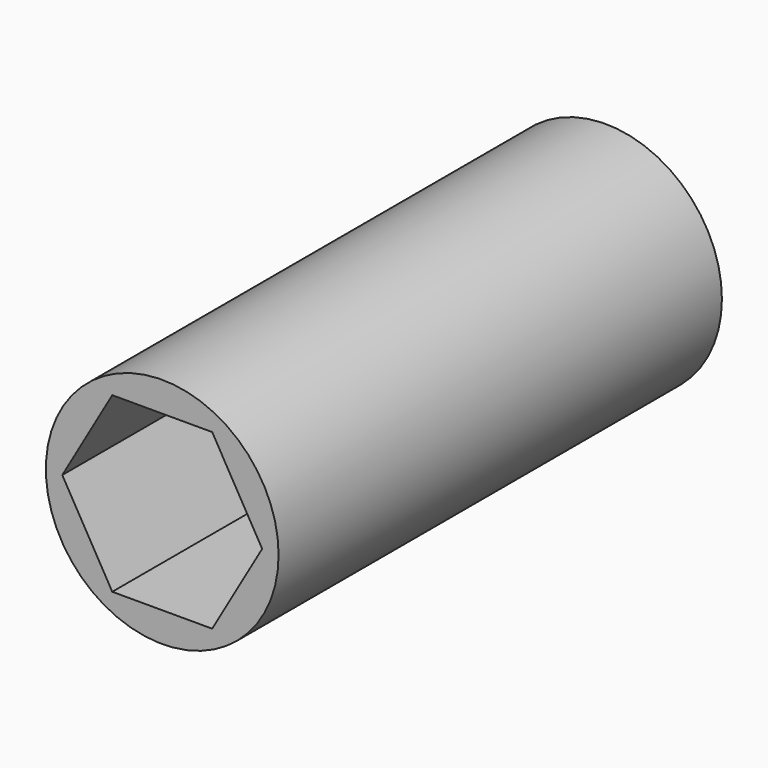
from build123d import *

# Parameters (mm, degrees)
F0_R     = 4
F1_DEPTH = 19.05


with BuildPart() as f1:
    # F0 (on Front) → F1 (new body)
    with BuildSketch(Plane.XZ):
        Circle(F0_R)
        Polygon((1.717617, 2.975), (3.435234, 0), (1.717617, -2.975), (-1.717617, -2.975), (-3.435234, 0), (-1.717617, 2.975), align=None, mode=Mode.SUBTRACT)
    extrude(amount=F1_DEPTH)


with BuildPart() as f2_1:
    # F2: copy of F1
    add(f1.part)


solid = Compound([f1.part, f2_1.part])
